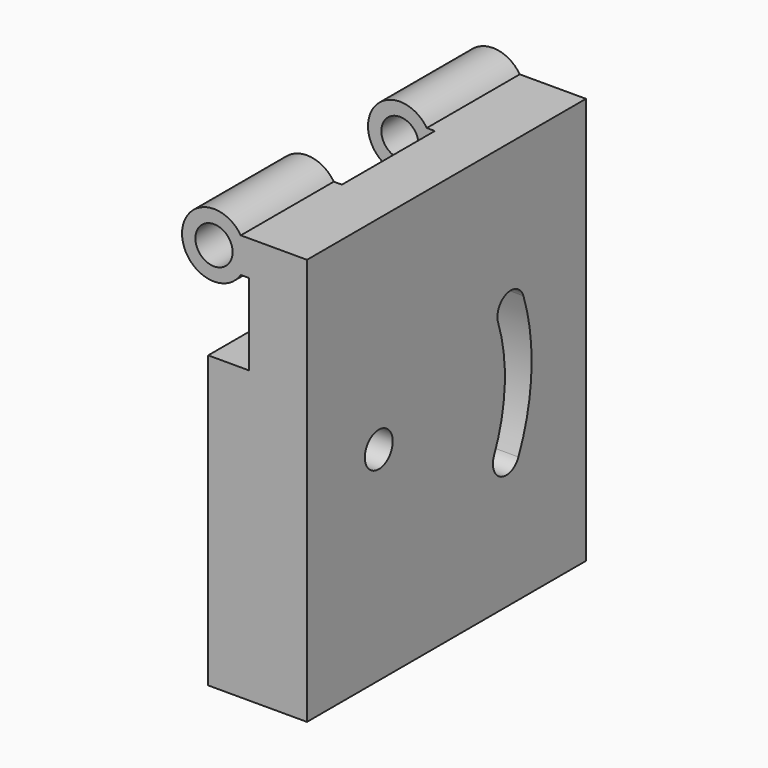
from build123d import *

# Parameters (mm, degrees)
F0_R     = 3.2
F1_DEPTH = 60
F2_W     = 23.016388
F2_H     = 20
F3_DEPTH = 72.501
F4_W     = 17
F4_H     = 60
F5_DEPTH = 50
F6_R     = 3
F7_DEPTH = 25


with BuildPart() as f1:
    # F0 (on Front) → F1 (new body)
    with BuildSketch(Plane.XZ):
        with BuildLine():
            Line((-10, 64), (-10, 0))
            Line((-10, 0), (0, 0))
            Line((0, 0), (0, 70))
            Line((0, 70), (-11.390228, 70))
            ThreePointArc((-11.390228, 70), (-21.5, 67), (-11.390228, 64))
            Line((-11.390228, 64), (-10, 64))
        make_face()
        with Locations((-16, 67)):
            Circle(F0_R, mode=Mode.SUBTRACT)
    extrude(amount=F1_DEPTH)

    # F2 (on Top) → F3 (cut, through all)
    with BuildSketch(Plane.XY):
        with Locations((-21.508194, -30)):
            Rectangle(F2_W, F2_H)
    extrude(amount=F3_DEPTH, mode=Mode.SUBTRACT)

    # F4 (on Top) → F5 (join)
    with BuildSketch(Plane.XY):
        with Locations((-8.5, -30)):
            Rectangle(F4_W, F4_H)
    extrude(amount=F5_DEPTH)

    # F6 (on face) → F7 (cut)
    with BuildSketch(Plane.YZ):
        with Locations((-44.56006, 35)):
            Circle(F6_R)
        with BuildLine():
            ThreePointArc((-18.885411, 43.756471), (-17.460533, 33.783836), (-19.772981, 23.978923))
            ThreePointArc((-19.772981, 23.978923), (-18.314924, 20.18622), (-14.52222, 21.644278))
            ThreePointArc((-14.52222, 21.644278), (-11.719915, 33.52621), (-13.446631, 45.611395))
            ThreePointArc((-13.446631, 45.611395), (-17.093483, 47.403323), (-18.885411, 43.756471))
        make_face()
    extrude(amount=-F7_DEPTH, mode=Mode.SUBTRACT)


solid = f1.part
